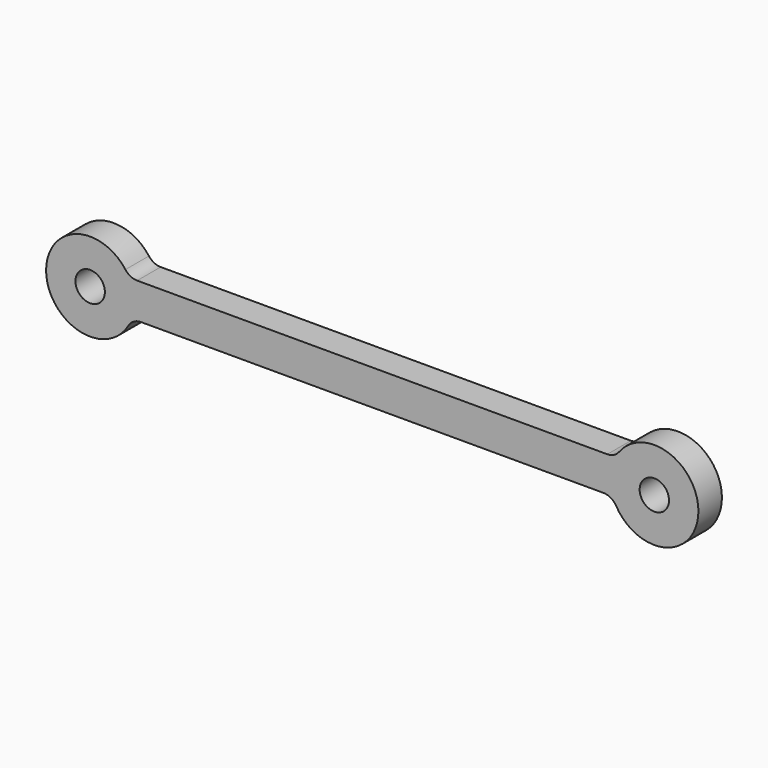
from build123d import *

# Parameters (mm, degrees)
F0_R     = 5
F1_DEPTH = 10


with BuildPart() as f1:
    # F0 (on Front) → F1 (new body)
    with BuildSketch(Plane.XZ):
        with BuildLine():
            ThreePointArc((-83.009619, -9.5), (-81.179492, -7.669873), (-78.679492, -7))
            Line((-78.679492, -7), (0, -7))
            Line((0, -7), (78.679492, -7))
            ThreePointArc((78.679492, -7), (81.179492, -7.669873), (83.009619, -9.5))
            ThreePointArc((83.009619, -9.5), (110.973052, -2.898729), (84, 7))
            ThreePointArc((84, 7), (82.236068, 5.527864), (80, 5))
            Line((80, 5), (0, 5))
            Line((0, 5), (-80, 5))
            ThreePointArc((-80, 5), (-82.236068, 5.527864), (-84, 7))
            ThreePointArc((-84, 7), (-110.973052, -2.898729), (-83.009619, -9.5))
        make_face()
        with Locations((-96, -2)):
            Circle(F0_R, mode=Mode.SUBTRACT)
        with Locations((96, -2)):
            Circle(F0_R, mode=Mode.SUBTRACT)
    extrude(amount=F1_DEPTH)


solid = f1.part
